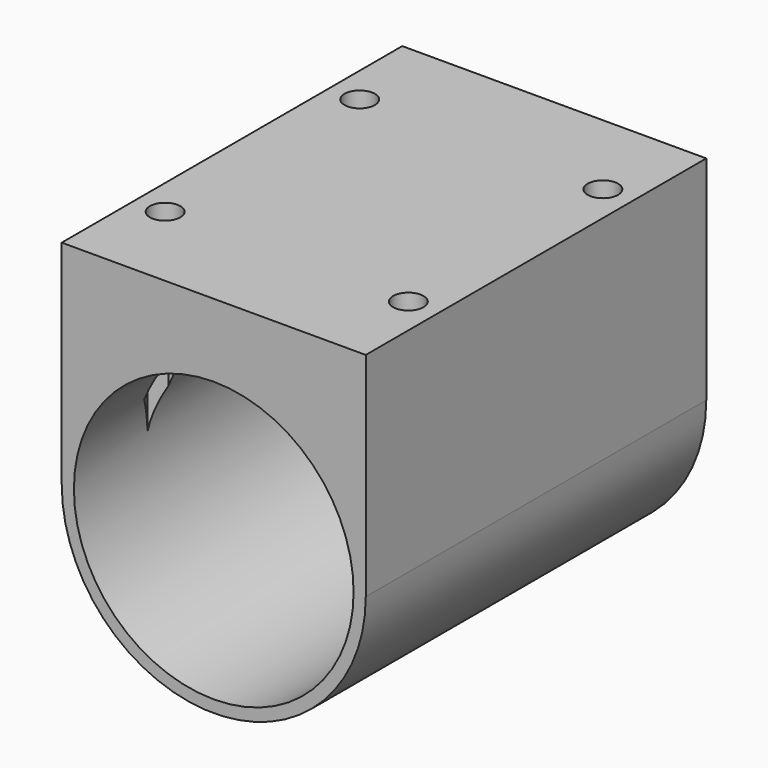
from build123d import *

# Parameters (mm, degrees)
F1_DEPTH = 35
F2_R     = 2.5
F3_DEPTH = 35.001
F4_DEPTH = 35
F6_DEPTH = 30


with BuildPart() as f1:
    # F0 (on Front) → F1 (new body, symmetric)
    with BuildSketch(Plane.XZ):
        with BuildLine():
            ThreePointArc((-25, 0), (0, 25), (25, 0))
            Line((25, 0), (25, 35))
            Line((25, 35), (-25, 35))
            Line((-25, 35), (-25, 0))
        make_face()
        with BuildLine():
            Line((23, 0), (25, 0))
            ThreePointArc((25, 0), (0, 25), (-25, 0))
            Line((-25, 0), (-23, 0))
            ThreePointArc((-23, 0), (0, 23), (23, 0))
        make_face()
    extrude(amount=F1_DEPTH, both=True)

    # F2 (on face) → F3 (cut, through all)
    with BuildSketch(Plane.XY.offset(35)):
        with Locations((20, 20)):
            Circle(F2_R)
        with Locations((-20, 20)):
            Circle(F2_R)
        with Locations((-20, -20)):
            Circle(F2_R)
        with Locations((20, -20)):
            Circle(F2_R)
    extrude(amount=-F3_DEPTH, mode=Mode.SUBTRACT)

    # F0 (on Front) → F4 (join, symmetric)
    with BuildSketch(Plane.XZ):
        with BuildLine():
            ThreePointArc((-25, 0), (0, -25), (25, 0))
            Line((25, 0), (23, 0))
            ThreePointArc((23, 0), (0, -23), (-23, 0))
            Line((-23, 0), (-25, 0))
        make_face()
    extrude(amount=F4_DEPTH, both=True)

    # F5 (on Top) → F6 (cut)
    with BuildSketch(Plane.XY):
        Polygon((-17.1132486541, -20), (-18.556624327, -17.5), (-21.443375673, -17.5), (-22.8867513459, -20), (-21.443375673, -22.5), (-18.556624327, -22.5), align=None)
        Polygon((21.443375673, -17.5), (18.556624327, -17.5), (17.1132486541, -20), (18.556624327, -22.5), (21.443375673, -22.5), (22.8867513459, -20), align=None)
        Polygon((-21.443375673, 17.5), (-18.556624327, 17.5), (-17.1132486541, 20), (-18.556624327, 22.5), (-21.443375673, 22.5), (-22.8867513459, 20), align=None)
        Polygon((17.1132486541, 20), (18.556624327, 17.5), (21.443375673, 17.5), (22.8867513459, 20), (21.443375673, 22.5), (18.556624327, 22.5), align=None)
    extrude(amount=F6_DEPTH, mode=Mode.SUBTRACT)


solid = f1.part
